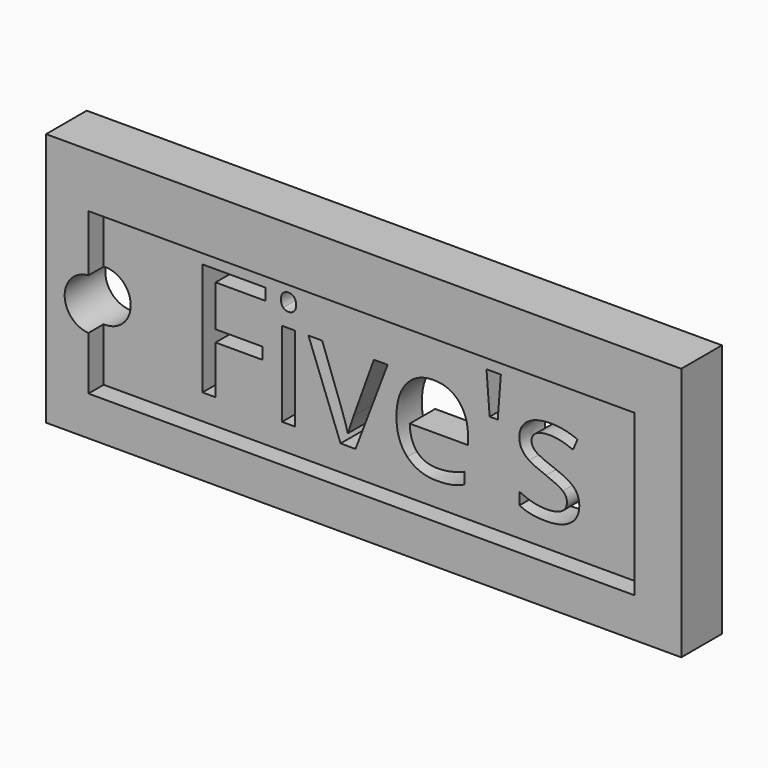
from build123d import *

# Parameters (mm, degrees)
F0_W     = 63.5
F0_H     = 25.4
F0_W_2   = 54.6053671278
F0_H_2   = 16.0604021512
F1_DEPTH = 5.08
F0_W_3   = 1.2807164436
F0_H_3   = 8.4517414633
F2_DEPTH = 3.175
F3_R     = 2.54
F4_DEPTH = 25.4
F5_DEPTH = 3.175


with BuildPart() as f1:
    # F0 (on Front) → F1 (new body)
    with BuildSketch(Plane.XZ):
        with Locations((31.75, 12.7)):
            Rectangle(F0_W, F0_H)
        with Locations((31.5367903095, 11.9723000098)):
            Rectangle(F0_W_2, F0_H_2, mode=Mode.SUBTRACT)
    extrude(amount=F1_DEPTH)

    # F0 (on Front) → F2 (join)
    with BuildSketch(Plane.XZ):
        with Locations((31.5367903095, 11.9723000098)):
            Rectangle(F0_W_2, F0_H_2)
        with Locations((22.7084914528, 10.7061468506)):
            Rectangle(F0_W_3, F0_H_3, mode=Mode.SUBTRACT)
        Polygon((15.4202525004, 11.2996194994), (15.4202525004, 6.480276119), (14.1099241159, 6.480276119), (14.1099241159, 17.7550226141), (20.3950585705, 17.7550226141), (20.3950585705, 16.5902862723), (15.4202525004, 16.5902862723), (15.4202525004, 12.4643558412), (20.0940038381, 12.4643558412), (20.0940038381, 11.2996194994), align=None, mode=Mode.SUBTRACT)
        with BuildLine():
            Line((29.4094269108, 6.480276119), (27.9140238957, 6.480276119))
            Line((27.9140238957, 6.480276119), (24.7060636322, 14.9320175823))
            Line((24.7060636322, 14.9320175823), (26.0780835603, 14.9320175823))
            Line((26.0780835603, 14.9320175823), (27.8992179252, 9.9201965861))
            add(Edge.make_bspline(
                [(27.8992179252, 9.9201965861), (28.5161333605, 8.1607537647), (28.6247104771, 7.6376094755)],
                knots=[0, 0, 0, 1, 1, 1], degree=2))
            Line((28.6247104771, 7.6376094755), (28.6864020207, 7.6376094755))
            add(Edge.make_bspline(
                [(28.6864020207, 7.6376094755), (28.7703025199, 8.0447736628), (29.2218846185, 9.3291915991)],
                knots=[0, 0, 0, 1, 1, 1], degree=2))
            add(Edge.make_bspline(
                [(29.2218846185, 9.3291915991), (29.6734667171, 10.6136095353), (31.2453672462, 14.9320175823)],
                knots=[0, 0, 0, 1, 1, 1], degree=2))
            Line((31.2453672462, 14.9320175823), (32.6173871743, 14.9320175823))
            Line((32.6173871743, 14.9320175823), (29.4094269108, 6.480276119))
        make_face(mode=Mode.SUBTRACT)
        with BuildLine():
            add(Edge.make_bspline(
                [(39.006163422, 6.4531318398), (38.4015862954, 6.3248134293), (37.5453076713, 6.3248134293)],
                knots=[0, 0, 0, 1, 1, 1], degree=2))
            add(Edge.make_bspline(
                [(37.5453076713, 6.3248134293), (35.6723524098, 6.3248134293), (34.5878150745, 7.4673408154)],
                knots=[0, 0, 0, 1, 1, 1], degree=2))
            add(Edge.make_bspline(
                [(34.5878150745, 7.4673408154), (33.5032777393, 8.6098682015), (33.5032777393, 10.635818491)],
                knots=[0, 0, 0, 1, 1, 1], degree=2))
            add(Edge.make_bspline(
                [(33.5032777393, 10.635818491), (33.5032777393, 12.6815100744), (34.5100837297, 13.8844951732)],
                knots=[0, 0, 0, 1, 1, 1], degree=2))
            add(Edge.make_bspline(
                [(34.5100837297, 13.8844951732), (35.5168897201, 15.087480272), (37.214640998, 15.087480272)],
                knots=[0, 0, 0, 1, 1, 1], degree=2))
            add(Edge.make_bspline(
                [(37.214640998, 15.087480272), (38.8013474975, 15.087480272), (39.7267206504, 14.0424255246)],
                knots=[0, 0, 0, 1, 1, 1], degree=2))
            add(Edge.make_bspline(
                [(39.7267206504, 14.0424255246), (40.6520938033, 12.9973707773), (40.6520938033, 11.2848135289)],
                knots=[0, 0, 0, 1, 1, 1], degree=2))
            Line((40.6520938033, 11.2848135289), (40.6520938033, 10.4754204778))
            Line((40.6520938033, 10.4754204778), (34.830879756, 10.4754204778))
            add(Edge.make_bspline(
                [(34.830879756, 10.4754204778), (34.8703623439, 8.9874204479), (35.5835165871, 8.2162761538)],
                knots=[0, 0, 0, 1, 1, 1], degree=2))
            add(Edge.make_bspline(
                [(35.5835165871, 8.2162761538), (36.2966708303, 7.4451318597), (37.5921932444, 7.4451318597)],
                knots=[0, 0, 0, 1, 1, 1], degree=2))
            add(Edge.make_bspline(
                [(37.5921932444, 7.4451318597), (38.9568101872, 7.4451318597), (40.2893475274, 8.0151617219)],
                knots=[0, 0, 0, 1, 1, 1], degree=2))
            Line((40.2893475274, 8.0151617219), (40.2893475274, 6.8726343358))
            add(Edge.make_bspline(
                [(40.2893475274, 6.8726343358), (39.6107405486, 6.5814502503), (39.006163422, 6.4531318398)],
                knots=[0, 0, 0, 1, 1, 1], degree=2))
        make_face(mode=Mode.SUBTRACT)
        with BuildLine():
            add(Edge.make_bspline(
                [(51.2531686432, 10.1817687306), (51.7812482558, 9.6265448389), (51.7812482558, 8.7850721852)],
                knots=[0, 0, 0, 1, 1, 1], degree=2))
            add(Edge.make_bspline(
                [(51.7812482558, 8.7850721852), (51.7812482558, 7.6055298729), (50.902760676, 6.9651716511)],
                knots=[0, 0, 0, 1, 1, 1], degree=2))
            add(Edge.make_bspline(
                [(50.902760676, 6.9651716511), (50.0242730961, 6.3248134293), (48.4350989348, 6.3248134293)],
                knots=[0, 0, 0, 1, 1, 1], degree=2))
            add(Edge.make_bspline(
                [(48.4350989348, 6.3248134293), (46.7546212891, 6.3248134293), (45.8144421658, 6.8578283654)],
                knots=[0, 0, 0, 1, 1, 1], degree=2))
            Line((45.8144421658, 6.8578283654), (45.8144421658, 8.0447736628))
            add(Edge.make_bspline(
                [(45.8144421658, 8.0447736628), (46.4239546158, 7.7363159452), (47.1210690577, 7.5598781307)],
                knots=[0, 0, 0, 1, 1, 1], degree=2))
            add(Edge.make_bspline(
                [(47.1210690577, 7.5598781307), (47.8181834996, 7.3834403162), (48.4671785375, 7.3834403162)],
                knots=[0, 0, 0, 1, 1, 1], degree=2))
            add(Edge.make_bspline(
                [(48.4671785375, 7.3834403162), (49.4690492044, 7.3834403162), (50.0082332948, 7.7030025117)],
                knots=[0, 0, 0, 1, 1, 1], degree=2))
            add(Edge.make_bspline(
                [(50.0082332948, 7.7030025117), (50.5474173852, 8.0225647072), (50.5474173852, 8.6789627303)],
                knots=[0, 0, 0, 1, 1, 1], degree=2))
            add(Edge.make_bspline(
                [(50.5474173852, 8.6789627303), (50.5474173852, 9.1724950785), (50.120511904, 9.5229030458)],
                knots=[0, 0, 0, 1, 1, 1], degree=2))
            add(Edge.make_bspline(
                [(50.120511904, 9.5229030458), (49.6936064228, 9.873311013), (48.4499049053, 10.3520373908)],
                knots=[0, 0, 0, 1, 1, 1], degree=2))
            add(Edge.make_bspline(
                [(48.4499049053, 10.3520373908), (47.270362593, 10.7912811807), (46.7731287522, 11.1194801923)],
                knots=[0, 0, 0, 1, 1, 1], degree=2))
            add(Edge.make_bspline(
                [(46.7731287522, 11.1194801923), (46.2758949114, 11.4476792038), (46.0328302299, 11.8634802072)],
                knots=[0, 0, 0, 1, 1, 1], degree=2))
            add(Edge.make_bspline(
                [(46.0328302299, 11.8634802072), (45.7897655484, 12.2792812106), (45.7897655484, 12.856714058)],
                knots=[0, 0, 0, 1, 1, 1], degree=2))
            add(Edge.make_bspline(
                [(45.7897655484, 12.856714058), (45.7897655484, 13.8906643275), (46.6312382021, 14.4890722998)],
                knots=[0, 0, 0, 1, 1, 1], degree=2))
            add(Edge.make_bspline(
                [(46.6312382021, 14.4890722998), (47.4727108558, 15.087480272), (48.9360342683, 15.087480272)],
                knots=[0, 0, 0, 1, 1, 1], degree=2))
            add(Edge.make_bspline(
                [(48.9360342683, 15.087480272), (50.3006512111, 15.087480272), (51.6060442722, 14.5322563802)],
                knots=[0, 0, 0, 1, 1, 1], degree=2))
            Line((51.6060442722, 14.5322563802), (51.1495268501, 13.4909031255))
            add(Edge.make_bspline(
                [(51.1495268501, 13.4909031255), (49.8786810534, 14.0140474146), (48.8447307839, 14.0140474146)],
                knots=[0, 0, 0, 1, 1, 1], degree=2))
            add(Edge.make_bspline(
                [(48.8447307839, 14.0140474146), (47.9341636014, 14.0140474146), (47.4714770249, 13.7290324835)],
                knots=[0, 0, 0, 1, 1, 1], degree=2))
            add(Edge.make_bspline(
                [(47.4714770249, 13.7290324835), (47.0087904485, 13.4440175524), (47.0087904485, 12.943082219)],
                knots=[0, 0, 0, 1, 1, 1], degree=2))
            add(Edge.make_bspline(
                [(47.0087904485, 12.943082219), (47.0087904485, 12.6025448987), (47.1827606012, 12.3644155407)],
                knots=[0, 0, 0, 1, 1, 1], degree=2))
            add(Edge.make_bspline(
                [(47.1827606012, 12.3644155407), (47.356730754, 12.1262861826), (47.7416859856, 11.9103657803)],
                knots=[0, 0, 0, 1, 1, 1], degree=2))
            add(Edge.make_bspline(
                [(47.7416859856, 11.9103657803), (48.1266412172, 11.6944453779), (49.2222830303, 11.2848135289)],
                knots=[0, 0, 0, 1, 1, 1], degree=2))
            add(Edge.make_bspline(
                [(49.2222830303, 11.2848135289), (50.7250890306, 10.7369926224), (51.2531686432, 10.1817687306)],
                knots=[0, 0, 0, 1, 1, 1], degree=2))
        make_face(mode=Mode.SUBTRACT)
        with BuildLine():
            add(Edge.make_bspline(
                [(22.1754765167, 16.5779479636), (21.9595561144, 16.7901668734), (21.9595561144, 17.2220076781)],
                knots=[0, 0, 0, 1, 1, 1], degree=2))
            add(Edge.make_bspline(
                [(21.9595561144, 17.2220076781), (21.9595561144, 17.661251468), (22.1754765167, 17.8660673925)],
                knots=[0, 0, 0, 1, 1, 1], degree=2))
            add(Edge.make_bspline(
                [(22.1754765167, 17.8660673925), (22.3913969191, 18.070883317), (22.7171282689, 18.070883317)],
                knots=[0, 0, 0, 1, 1, 1], degree=2))
            add(Edge.make_bspline(
                [(22.7171282689, 18.070883317), (23.0255859865, 18.070883317), (23.2489093741, 17.8623658999)],
                knots=[0, 0, 0, 1, 1, 1], degree=2))
            add(Edge.make_bspline(
                [(23.2489093741, 17.8623658999), (23.4722327617, 17.6538484827), (23.4722327617, 17.2220076781)],
                knots=[0, 0, 0, 1, 1, 1], degree=2))
            add(Edge.make_bspline(
                [(23.4722327617, 17.2220076781), (23.4722327617, 16.7901668734), (23.2489093741, 16.5779479636)],
                knots=[0, 0, 0, 1, 1, 1], degree=2))
            add(Edge.make_bspline(
                [(23.2489093741, 16.5779479636), (23.0255859865, 16.3657290539), (22.7171282689, 16.3657290539)],
                knots=[0, 0, 0, 1, 1, 1], degree=2))
            add(Edge.make_bspline(
                [(22.7171282689, 16.3657290539), (22.3913969191, 16.3657290539), (22.1754765167, 16.5779479636)],
                knots=[0, 0, 0, 1, 1, 1], degree=2))
        make_face(mode=Mode.SUBTRACT)
        Polygon((42.5053077709, 17.7550226141), (43.9390192425, 17.7550226141), (43.6305615249, 13.6833807413), (42.8211684738, 13.6833807413), align=None, mode=Mode.SUBTRACT)
    extrude(amount=F2_DEPTH)

    # F3 (on Front) → F4 (cut)
    with BuildSketch(Plane.XZ):
        with Locations((4.3997538427, 11.8095606944)):
            Circle(F3_R)
    extrude(amount=F4_DEPTH, mode=Mode.SUBTRACT)

    # F5 (add): a face of the model
    f5_faces = [f1.faces().sort_by_distance(p)[0] for p in [
        (31.8480546153, -3.175, 12.0163754406),
    ]]
    extrude(f5_faces, amount=-F5_DEPTH)


solid = f1.part
